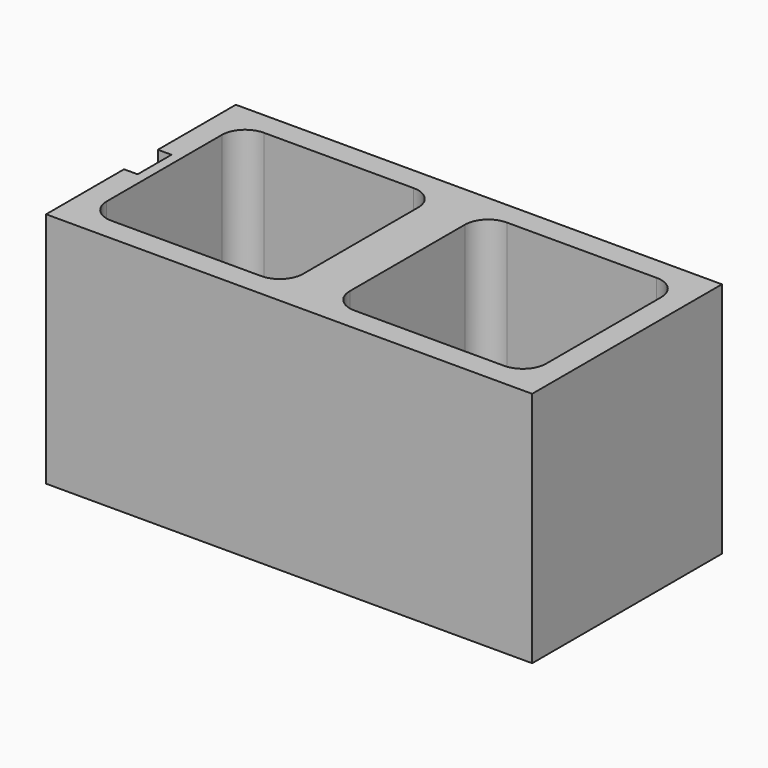
from build123d import *

# Parameters (mm, degrees)
F0_W     = 198.4375
F0_H     = 193.675
F0_W_2   = 160.3375
F0_H_2   = 155.575
F1_DEPTH = 193.675
F2_R     = 19.05


with BuildPart() as f1:
    # F0 (on Top) → F1 (new body)
    with BuildSketch(Plane.XY):
        with Locations((99.21875, 0)):
            Rectangle(F0_W, F0_H)
        with Locations((99.21875, 0)):
            Rectangle(F0_W_2, F0_H_2, mode=Mode.SUBTRACT)
        Polygon((0, 96.8375), (-198.4375, 96.8375), (-198.4375, 17.272), (-187.345186, 17.272), (-187.345186, -17.272), (-198.4375, -17.272), (-198.4375, -96.8375), (0, -96.8375), align=None)
        with Locations((-99.21875, 0)):
            Rectangle(F0_W_2, F0_H_2, mode=Mode.SUBTRACT)
    extrude(amount=F1_DEPTH)

    # F2
    f2_edges = [f1.edges().sort_by_distance(p)[0] for p in [
        (179.3875, 77.7875, 96.8375),
        (179.3875, -77.7875, 96.8375),
        (19.05, 77.7875, 96.8375),
        (19.05, -77.7875, 96.8375),
        (-19.05, 77.7875, 96.8375),
        (-19.05, -77.7875, 96.8375),
        (-179.3875, 77.7875, 96.8375),
        (-179.3875, -77.7875, 96.8375),
    ]]
    fillet(f2_edges, radius=F2_R)


solid = f1.part
